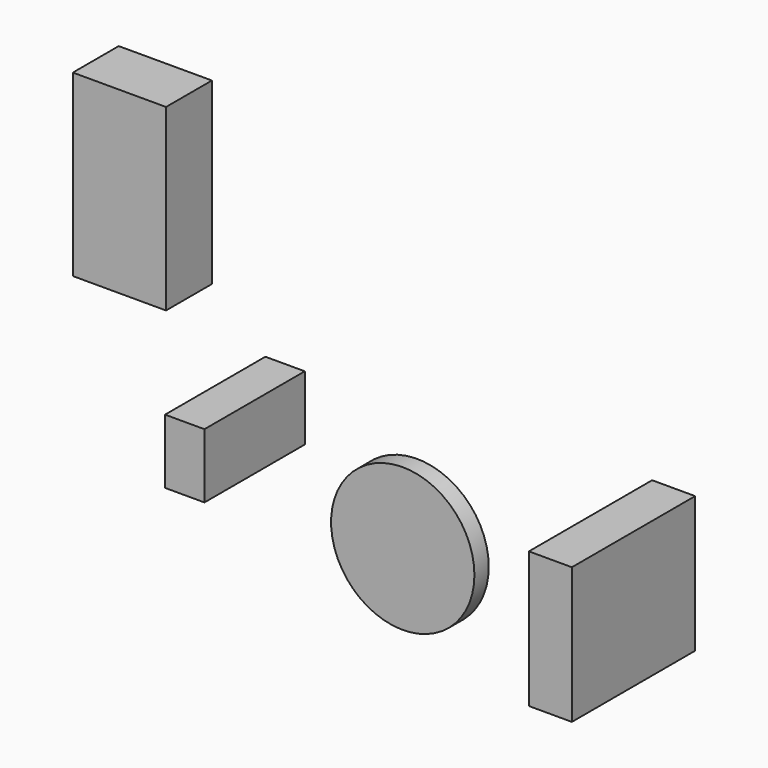
from build123d import *

# Parameters (mm, degrees)
F0_W     = 26
F0_H     = 16
F1_DEPTH = 50
F2_R     = 20
F3_DEPTH = 5
F4_W     = 43
F4_H     = 38
F5_DEPTH = 12
F6_W     = 35
F6_H     = 18
F7_DEPTH = 11


with BuildPart() as f1:
    # F0 (on Top) → F1 (new body)
    with BuildSketch(Plane.XY):
        with Locations((-123.455669, 58.494023)):
            Rectangle(F0_W, F0_H)
    extrude(amount=F1_DEPTH)


with BuildPart() as f3:
    # F2 (on Front) → F3 (new body)
    with BuildSketch(Plane.XZ):
        Circle(F2_R)
    extrude(amount=F3_DEPTH)


with BuildPart() as f5:
    # F4 (on Right) → F5 (new body)
    with BuildSketch(Plane.YZ):
        with Locations((60.49881, -37.584079)):
            Rectangle(F4_W, F4_H)
    extrude(amount=F5_DEPTH)


with BuildPart() as f7:
    # F6 (on Right) → F7 (new body)
    with BuildSketch(Plane.YZ):
        with Locations((-70.422539, 57.60181)):
            Rectangle(F6_W, F6_H)
    extrude(amount=F7_DEPTH)


solid = Compound([f1.part, f3.part, f5.part, f7.part])
